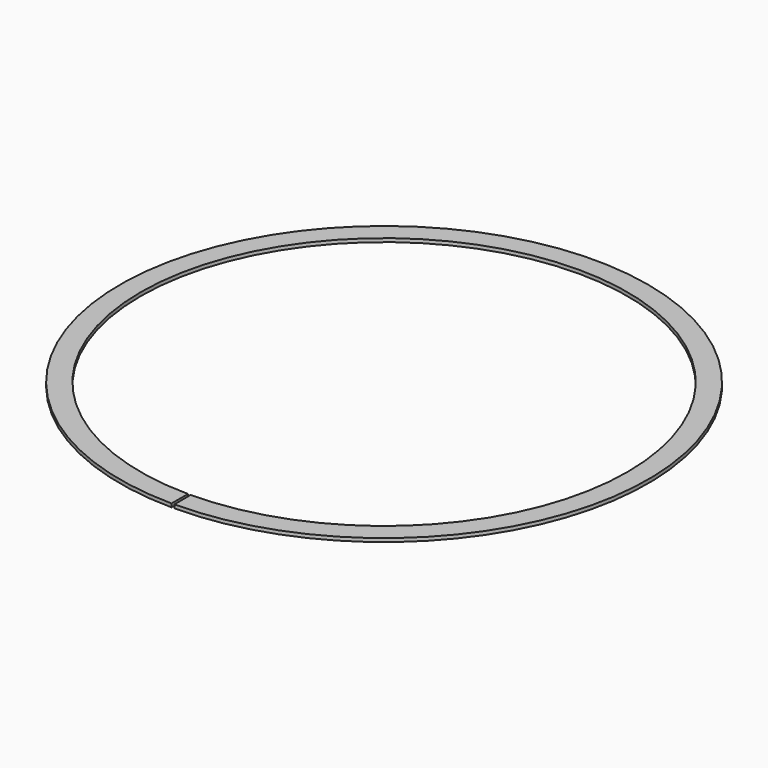
from build123d import *

# Parameters (mm, degrees)
F0_W          = 3.5
F0_H          = 0.6
F1_ANGLE_BACK = 179.7
F1_ANGLE      = 359.4


with BuildPart() as f1:
    # F0 (on Right) → F1 (revolve)
    with BuildSketch(Plane.YZ, mode=Mode.PRIVATE) as f1_sk:
        with Locations((43.25, 0.3)):
            Rectangle(F0_W, F0_H)
    revolve(f1_sk.sketch.rotate(Axis((0, 0, 10), (0, 0, 1)), -F1_ANGLE_BACK), axis=Axis((0, 0, 10), (0, 0, 1)), revolution_arc=F1_ANGLE)


solid = f1.part
